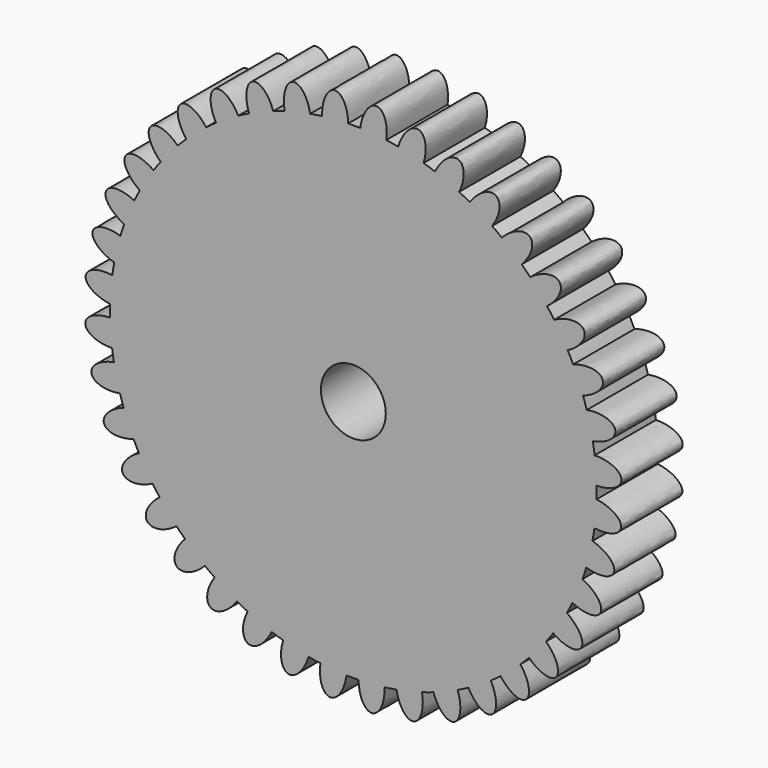
from build123d import *

# Parameters (mm, degrees)
F1_DEPTH = 6


with BuildPart() as f1:
    # F0 (on Front) → F1 (new body)
    with BuildSketch(Plane.XZ):
        with BuildLine():
            ThreePointArc((9.069051204, 14.3431792383), (9.0747859374, 14.6129997353), (9.0766976432, 14.8828743973))
            ThreePointArc((9.0766976432, 14.8828743973), (9.0756161921, 15.0858574449), (9.0723719615, 15.2888174461))
            ThreePointArc((9.0723719615, 15.2888174461), (9.0231044059, 16.3108205117), (8.9190351562, 17.3287041736))
            ThreePointArc((8.9190351562, 17.3287041736), (8.8525094627, 17.796859527), (8.7743846225, 18.2632194869))
            ThreePointArc((8.7743846225, 18.2632194869), (8.5658471294, 19.2649328551), (8.3038270587, 20.2540046627))
            ThreePointArc((8.3038270587, 20.2540046627), (8.1648847746, 20.7059893355), (8.0147670101, 21.1543862128))
            ThreePointArc((8.0147670101, 21.1543862128), (7.6520944647, 22.111144376), (7.2385753767, 23.0470500988))
            ThreePointArc((7.2385753767, 23.0470500988), (7.0306377222, 23.4717347284), (6.8122234308, 23.8911275039))
            ThreePointArc((6.8122234308, 23.8911275039), (6.3043460348, 24.7793719008), (5.749510142, 25.6390664338))
            ThreePointArc((5.749510142, 25.6390664338), (5.4776972322, 26.0259938752), (5.1963644987, 26.4060557068))
            ThreePointArc((5.1963644987, 26.4060557068), (4.5557878792, 27.2039148125), (3.8732970825, 27.9662296232))
            ThreePointArc((3.8732970825, 27.9662296232), (3.5443018534, 28.3058724386), (3.2069780234, 28.6372449427))
            ThreePointArc((3.2069780234, 28.6372449427), (2.4494753026, 29.325072818), (1.6561347906, 29.9712371857))
            ThreePointArc((1.6561347906, 29.9712371857), (1.2780581966, 30.2552322417), (0.8930493023, 30.5297559276))
            ThreePointArc((0.8930493023, 30.5297559276), (0.0372727113, 31.0906159675), (-0.8473828397, 31.6047191809))
            ThreePointArc((-0.8473828397, 31.6047191809), (-1.2652312982, 31.8260735769), (-1.6884450601, 32.0369887601))
            ThreePointArc((-1.6884450601, 32.0369887601), (-2.6214234614, 32.4570707291), (-3.5756108958, 32.826453861))
            ThreePointArc((-3.5756108958, 32.826453861), (-4.0229424028, 32.9797171169), (-4.4739401049, 33.1218303659))
            ThreePointArc((-4.4739401049, 33.1218303659), (-5.4611472921, 33.3907904516), (-6.4613713484, 33.6063580633))
            ThreePointArc((-6.4613713484, 33.6063580633), (-6.9271711177, 33.6877563293), (-7.3948476997, 33.757568344))
            ThreePointArc((-7.3948476997, 33.757568344), (-8.4119753553, 33.8687838566), (-9.4336071978, 33.9252279581))
            Line((-9.4336071978, 33.9252279581), (-9.9013430023, 17.4218548721))
            ThreePointArc((-9.9013430023, 17.4218548721), (-8.1519873428, 16.6533013571), (-7.4333023568, 14.8828743973))
            ThreePointArc((-7.4333023568, 14.8828743973), (-11.6500967662, 12.975006344), (-10.2994129937, 17.4018527324))
            Line((-10.2994129937, 17.4018527324), (-12.4191321331, 33.7752119103))
            ThreePointArc((-12.4191321331, 33.7752119103), (-12.8872874865, 33.7086862168), (-13.3536474464, 33.6305613767))
            ThreePointArc((-13.3536474464, 33.6305613767), (-14.3553608146, 33.4220238836), (-15.3444326222, 33.1600038129))
            ThreePointArc((-15.3444326222, 33.1600038129), (-15.796417295, 33.0210615288), (-16.2448141723, 32.8709437642))
            ThreePointArc((-16.2448141723, 32.8709437642), (-17.2015723355, 32.5082712188), (-18.1374780583, 32.0947521309))
            ThreePointArc((-18.1374780583, 32.0947521309), (-18.562162688, 31.8868144764), (-18.9815554634, 31.668400185))
            ThreePointArc((-18.9815554634, 31.668400185), (-19.8697998604, 31.160522789), (-20.7294943934, 30.6056868962))
            ThreePointArc((-20.7294943934, 30.6056868962), (-21.1164218347, 30.3338739864), (-21.4964836663, 30.0525412529))
            ThreePointArc((-21.4964836663, 30.0525412529), (-22.2943427721, 29.4119646334), (-23.0566575827, 28.7294738367))
            ThreePointArc((-23.0566575827, 28.7294738367), (-23.3963003981, 28.4004786076), (-23.7276729022, 28.0631547775))
            ThreePointArc((-23.7276729022, 28.0631547775), (-24.4155007775, 27.3056520568), (-25.0616651452, 26.5123115448))
            ThreePointArc((-25.0616651452, 26.5123115448), (-25.3456602012, 26.1342349508), (-25.6201838871, 25.7492260564))
            ThreePointArc((-25.6201838871, 25.7492260564), (-26.181043927, 24.8934494655), (-26.6951471405, 24.0087939144))
            ThreePointArc((-26.6951471405, 24.0087939144), (-26.9165015364, 23.590945456), (-27.1274167196, 23.1677316941))
            ThreePointArc((-27.1274167196, 23.1677316941), (-27.5474986886, 22.2347532927), (-27.9168818205, 21.2805658584))
            ThreePointArc((-27.9168818205, 21.2805658584), (-28.0701450764, 20.8332343513), (-28.2122583254, 20.3822366492))
            ThreePointArc((-28.2122583254, 20.3822366492), (-28.4812184111, 19.3950294621), (-28.6967860229, 18.3948054058))
            ThreePointArc((-28.6967860229, 18.3948054058), (-28.7781842888, 17.9290056365), (-28.8479963035, 17.4613290544))
            ThreePointArc((-28.8479963035, 17.4613290544), (-28.9592118161, 16.4442013988), (-29.0156559177, 15.4225695564))
            ThreePointArc((-29.0156559177, 15.4225695564), (-29.0231848981, 14.949771061), (-29.0189766752, 14.4769313486))
            ThreePointArc((-29.0189766752, 14.4769313486), (-28.9697091196, 13.454928283), (-28.8656398698, 12.437044621))
            ThreePointArc((-28.8656398698, 12.437044621), (-28.7991141764, 11.9688892676), (-28.7209893362, 11.5025293078))
            ThreePointArc((-28.7209893362, 11.5025293078), (-28.5124518431, 10.5008159396), (-28.2504317724, 9.511744132))
            ThreePointArc((-28.2504317724, 9.511744132), (-28.1114894883, 9.0597594591), (-27.9613717237, 8.6113625818))
            ThreePointArc((-27.9613717237, 8.6113625818), (-27.5986991783, 7.6546044186), (-27.1851800904, 6.7186986958))
            ThreePointArc((-27.1851800904, 6.7186986958), (-26.9772424359, 6.2940140662), (-26.7588281445, 5.8746212907))
            ThreePointArc((-26.7588281445, 5.8746212907), (-26.2509507485, 4.9863768938), (-25.6961148557, 4.1266823608))
            ThreePointArc((-25.6961148557, 4.1266823608), (-25.4243019459, 3.7397549194), (-25.1429692124, 3.3596930878))
            ThreePointArc((-25.1429692124, 3.3596930878), (-24.5023925929, 2.5618339821), (-23.8199017962, 1.7995191715))
            ThreePointArc((-23.8199017962, 1.7995191715), (-23.4909065671, 1.4598763561), (-23.1535827371, 1.128503852))
            ThreePointArc((-23.1535827371, 1.128503852), (-22.3960800163, 0.4406759766), (-21.6027395043, -0.205488391))
            ThreePointArc((-21.6027395043, -0.205488391), (-21.2246629103, -0.4894834471), (-20.8396540159, -0.7640071329))
            ThreePointArc((-20.8396540159, -0.7640071329), (-19.983877425, -1.3248671728), (-19.0992218739, -1.8389703863))
            ThreePointArc((-19.0992218739, -1.8389703863), (-18.6813734155, -2.0603247822), (-18.2581596536, -2.2712399655))
            ThreePointArc((-18.2581596536, -2.2712399655), (-17.3251812522, -2.6913219344), (-16.3709938179, -3.0607050664))
            ThreePointArc((-16.3709938179, -3.0607050664), (-15.9236623108, -3.2139683223), (-15.4726646088, -3.3560815712))
            ThreePointArc((-15.4726646088, -3.3560815712), (-14.4854574216, -3.6250416569), (-13.4852333653, -3.8406092687))
            ThreePointArc((-13.4852333653, -3.8406092687), (-13.019433596, -3.9220075346), (-12.5517570139, -3.9918195494))
            ThreePointArc((-12.5517570139, -3.9918195494), (-11.5346293583, -4.1030350619), (-10.5129975159, -4.1594791635))
            ThreePointArc((-10.5129975159, -4.1594791635), (-10.0401990205, -4.1670081439), (-9.5673593081, -4.162799921))
            ThreePointArc((-9.5673593081, -4.162799921), (-8.5453562425, -4.1135323654), (-7.5274725805, -4.0094631157))
            ThreePointArc((-7.5274725805, -4.0094631157), (-7.0593172271, -3.9429374222), (-6.5929572673, -3.864812582))
            ThreePointArc((-6.5929572673, -3.864812582), (-5.5912438991, -3.6562750889), (-4.6021720915, -3.3942550182))
            ThreePointArc((-4.6021720915, -3.3942550182), (-4.1501874186, -3.2553127342), (-3.7017905413, -3.1051949696))
            ThreePointArc((-3.7017905413, -3.1051949696), (-2.7450323781, -2.7425224242), (-1.8091266554, -2.3290033362))
            ThreePointArc((-1.8091266554, -2.3290033362), (-1.3844420257, -2.1210656817), (-0.9650492503, -1.9026513903))
            ThreePointArc((-0.9650492503, -1.9026513903), (-0.0768048533, -1.3947739943), (0.7828896797, -0.8399381015))
            ThreePointArc((0.7828896797, -0.8399381015), (1.1698171211, -0.5681251917), (1.5498789527, -0.2867924582))
            ThreePointArc((1.5498789527, -0.2867924582), (2.3477380584, 0.3537841613), (3.110052869, 1.036274958))
            ThreePointArc((3.110052869, 1.036274958), (3.4496956844, 1.3652701871), (3.7810681885, 1.7025940171))
            ThreePointArc((3.7810681885, 1.7025940171), (4.4688960639, 2.4600967378), (5.1150604315, 3.2534372499))
            ThreePointArc((5.1150604315, 3.2534372499), (5.3990554876, 3.6315138439), (5.6735791734, 4.0165227382))
            ThreePointArc((5.6735791734, 4.0165227382), (6.2344392133, 4.8722993292), (6.7485424268, 5.7569548802))
            ThreePointArc((6.7485424268, 5.7569548802), (6.9698968227, 6.1748033387), (7.180812006, 6.5980171006))
            ThreePointArc((7.180812006, 6.5980171006), (7.6008939749, 7.5309955019), (7.9702771068, 8.4851829363))
            ThreePointArc((7.9702771068, 8.4851829363), (8.1235403628, 8.9325144433), (8.2656536117, 9.3835121454))
            ThreePointArc((8.2656536117, 9.3835121454), (8.5346136974, 10.3707193325), (8.7501813092, 11.3709433888))
            ThreePointArc((8.7501813092, 11.3709433888), (8.8315795751, 11.8367431582), (8.9013915899, 12.3044197402))
            ThreePointArc((8.9013915899, 12.3044197402), (9.0126071024, 13.3215473958), (9.069051204, 14.3431792383))
        make_face()
        with BuildLine():
            ThreePointArc((8.9190351562, 17.3287041736), (9.0231044059, 16.3108205117), (9.0723719615, 15.2888174461))
            add(Edge.make_bspline(
                [(9.0723719615, 15.2888174461), (11.0965237738, 15.3142912387), (11.0187834824, 16.3484942673), (10.9410431911, 17.3826972958), (8.9190351562, 17.3287041736)],
                knots=[1.5954119774, 1.5954119774, 1.5954119774, 3.1799968121, 3.1799968121, 4.7645816468, 4.7645816468, 4.7645816468], degree=2, weights=[1, 0.7022150415, 1, 0.7022150415, 1]))
        make_face()
        with BuildLine():
            add(Edge.make_bspline(
                [(8.9013915899, 12.3044197402), (10.9046077135, 12.0129328023), (10.9896095317, 13.0465643363), (11.0746113499, 14.0801958703), (9.069051204, 14.3431792383)],
                knots=[1.5954119774, 1.5954119774, 1.5954119774, 3.1799968121, 3.1799968121, 4.7645816468, 4.7645816468, 4.7645816468], degree=2, weights=[1, 0.7022150415, 1, 0.7022150415, 1]))
            ThreePointArc((9.069051204, 14.3431792383), (9.0126071024, 13.3215473958), (8.9013915899, 12.3044197402))
        make_face()
        with BuildLine():
            ThreePointArc((8.3038270587, 20.2540046627), (8.5658471294, 19.2649328551), (8.7743846225, 18.2632194869))
            add(Edge.make_bspline(
                [(8.7743846225, 18.2632194869), (10.7696307879, 18.6050267607), (10.5310626111, 19.614335773), (10.2924944342, 20.6236447852), (8.3038270587, 20.2540046627)],
                knots=[1.5954119774, 1.5954119774, 1.5954119774, 3.1799968121, 3.1799968121, 4.7645816468, 4.7645816468, 4.7645816468], degree=2, weights=[1, 0.7022150415, 1, 0.7022150415, 1]))
        make_face()
        with BuildLine():
            add(Edge.make_bspline(
                [(8.2656536117, 9.3835121454), (10.1986082175, 8.7822418527), (10.4442591183, 9.7898504533), (10.6899100191, 10.797459054), (8.7501813092, 11.3709433888)],
                knots=[1.5954119774, 1.5954119774, 1.5954119774, 3.1799968121, 3.1799968121, 4.7645816468, 4.7645816468, 4.7645816468], degree=2, weights=[1, 0.7022150415, 1, 0.7022150415, 1]))
            ThreePointArc((8.7501813092, 11.3709433888), (8.5346136974, 10.3707193325), (8.2656536117, 9.3835121454))
        make_face()
        with BuildLine():
            ThreePointArc((7.2385753767, 23.0470500988), (7.6520944647, 22.111144376), (8.0147670101, 21.1543862128))
            add(Edge.make_bspline(
                [(8.0147670101, 21.1543862128), (9.9319779462, 21.8041105385), (9.5384562241, 22.7636729968), (9.144934502, 23.7232354551), (7.2385753767, 23.0470500988)],
                knots=[1.5954119774, 1.5954119774, 1.5954119774, 3.1799968121, 3.1799968121, 4.7645816468, 4.7645816468, 4.7645816468], degree=2, weights=[1, 0.7022150415, 1, 0.7022150415, 1]))
        make_face()
        with BuildLine():
            add(Edge.make_bspline(
                [(7.180812006, 6.5980171006), (8.9959093365, 5.7017687232), (9.3961605795, 6.6585437227), (9.7964118225, 7.6153187222), (7.9702771068, 8.4851829363)],
                knots=[1.5954119774, 1.5954119774, 1.5954119774, 3.1799968121, 3.1799968121, 4.7645816468, 4.7645816468, 4.7645816468], degree=2, weights=[1, 0.7022150415, 1, 0.7022150415, 1]))
            ThreePointArc((7.9702771068, 8.4851829363), (7.6008939749, 7.5309955019), (7.180812006, 6.5980171006))
        make_face()
        with BuildLine():
            ThreePointArc((5.749510142, 25.6390664338), (6.3043460348, 24.7793719008), (6.8122234308, 23.8911275039))
            add(Edge.make_bspline(
                [(6.8122234308, 23.8911275039), (8.6041910416, 24.8327705121), (8.0654055851, 25.7189588042), (7.5266201286, 26.6051470962), (5.749510142, 25.6390664338)],
                knots=[1.5954119774, 1.5954119774, 1.5954119774, 3.1799968121, 3.1799968121, 4.7645816468, 4.7645816468, 4.7645816468], degree=2, weights=[1, 0.7022150415, 1, 0.7022150415, 1]))
        make_face()
        with BuildLine():
            add(Edge.make_bspline(
                [(5.6735791734, 4.0165227382), (7.3261255083, 2.8473648857), (7.8711215795, 3.7297473082), (8.4161176508, 4.6121297307), (6.7485424268, 5.7569548802)],
                knots=[1.5954119774, 1.5954119774, 1.5954119774, 3.1799968121, 3.1799968121, 4.7645816468, 4.7645816468, 4.7645816468], degree=2, weights=[1, 0.7022150415, 1, 0.7022150415, 1]))
            ThreePointArc((6.7485424268, 5.7569548802), (6.2344392133, 4.8722993292), (5.6735791734, 4.0165227382))
        make_face()
        with BuildLine():
            ThreePointArc((3.8732970825, 27.9662296232), (4.5557878792, 27.2039148125), (5.1963644987, 26.4060557068))
            add(Edge.make_bspline(
                [(5.1963644987, 26.4060557068), (6.8189645944, 27.6164310216), (6.1481820895, 28.4074242506), (5.4773995846, 29.1984174796), (3.8732970825, 27.9662296232)],
                knots=[1.5954119774, 1.5954119774, 1.5954119774, 3.1799968121, 3.1799968121, 4.7645816468, 4.7645816468, 4.7645816468], degree=2, weights=[1, 0.7022150415, 1, 0.7022150415, 1]))
        make_face()
        with BuildLine():
            add(Edge.make_bspline(
                [(3.7810681885, 1.7025940171), (5.2303723526, 0.289315236), (5.90669364, 1.0755778978), (6.5830149275, 1.8618405596), (5.1150604315, 3.2534372499)],
                knots=[1.5954119774, 1.5954119774, 1.5954119774, 3.1799968121, 3.1799968121, 4.7645816468, 4.7645816468, 4.7645816468], degree=2, weights=[1, 0.7022150415, 1, 0.7022150415, 1]))
            ThreePointArc((5.1150604315, 3.2534372499), (4.4688960639, 2.4600967378), (3.7810681885, 1.7025940171))
        make_face()
        with BuildLine():
            ThreePointArc((1.6561347906, 29.9712371857), (2.4494753026, 29.325072818), (3.2069780234, 28.6372449427))
            add(Edge.make_bspline(
                [(3.2069780234, 28.6372449427), (4.6202568045, 30.0865491068), (3.8339941427, 30.7628703942), (3.0477314809, 31.4391916816), (1.6561347906, 29.9712371857)],
                knots=[1.5954119774, 1.5954119774, 1.5954119774, 3.1799968121, 3.1799968121, 4.7645816468, 4.7645816468, 4.7645816468], degree=2, weights=[1, 0.7022150415, 1, 0.7022150415, 1]))
        make_face()
        with BuildLine():
            add(Edge.make_bspline(
                [(1.5498789527, -0.2867924582), (2.7602542674, -1.9093925539), (3.5512474964, -1.238610049), (4.3422407254, -0.5678275441), (3.110052869, 1.036274958)],
                knots=[1.5954119774, 1.5954119774, 1.5954119774, 3.1799968121, 3.1799968121, 4.7645816468, 4.7645816468, 4.7645816468], degree=2, weights=[1, 0.7022150415, 1, 0.7022150415, 1]))
            ThreePointArc((3.110052869, 1.036274958), (2.3477380584, 0.3537841613), (1.5498789527, -0.2867924582))
        make_face()
        with BuildLine():
            ThreePointArc((-0.8473828397, 31.6047191809), (0.0372727113, 31.0906159675), (0.8930493023, 30.5297559276))
            add(Edge.make_bspline(
                [(0.8930493023, 30.5297559276), (2.0622071548, 32.1823022625), (1.1798247323, 32.7272983337), (0.2974423098, 33.2722944049), (-0.8473828397, 31.6047191809)],
                knots=[1.5954119774, 1.5954119774, 1.5954119774, 3.1799968121, 3.1799968121, 4.7645816468, 4.7645816468, 4.7645816468], degree=2, weights=[1, 0.7022150415, 1, 0.7022150415, 1]))
        make_face()
        with BuildLine():
            add(Edge.make_bspline(
                [(-0.9650492503, -1.9026513903), (-0.0234062421, -3.6946190011), (0.86278205, -3.1558335446), (1.7489703421, -2.6170480881), (0.7828896797, -0.8399381015)],
                knots=[1.5954119774, 1.5954119774, 1.5954119774, 3.1799968121, 3.1799968121, 4.7645816468, 4.7645816468, 4.7645816468], degree=2, weights=[1, 0.7022150415, 1, 0.7022150415, 1]))
            ThreePointArc((0.7828896797, -0.8399381015), (-0.0768048533, -1.3947739943), (-0.9650492503, -1.9026513903))
        make_face()
        with BuildLine():
            ThreePointArc((-3.5756108958, 32.826453861), (-2.6214234614, 32.4570707291), (-1.6884450601, 32.0369887601))
            add(Edge.make_bspline(
                [(-1.6884450601, 32.0369887601), (-0.7921966827, 33.8520860906), (-1.7489716822, 34.2523373336), (-2.7057466817, 34.6525885766), (-3.5756108958, 32.826453861)],
                knots=[1.5954119774, 1.5954119774, 1.5954119774, 3.1799968121, 3.1799968121, 4.7645816468, 4.7645816468, 4.7645816468], degree=2, weights=[1, 0.7022150415, 1, 0.7022150415, 1]))
        make_face()
        with BuildLine():
            add(Edge.make_bspline(
                [(-3.7017905413, -3.1051949696), (-3.0520662157, -5.0224059057), (-2.0925037574, -4.6288841836), (-1.1329412991, -4.2353624615), (-1.8091266554, -2.3290033362)],
                knots=[1.5954119774, 1.5954119774, 1.5954119774, 3.1799968121, 3.1799968121, 4.7645816468, 4.7645816468, 4.7645816468], degree=2, weights=[1, 0.7022150415, 1, 0.7022150415, 1]))
            ThreePointArc((-1.8091266554, -2.3290033362), (-2.7450323781, -2.7425224242), (-3.7017905413, -3.1051949696))
        make_face()
        with BuildLine():
            ThreePointArc((-6.4613713484, 33.6063580633), (-5.4611472921, 33.3907904516), (-4.4739401049, 33.1218303659))
            add(Edge.make_bspline(
                [(-4.4739401049, 33.1218303659), (-3.8726698122, 35.0547849717), (-4.8802784128, 35.3004358725), (-5.8878870135, 35.5460867733), (-6.4613713484, 33.6063580633)],
                knots=[1.5954119774, 1.5954119774, 1.5954119774, 3.1799968121, 3.1799968121, 4.7645816468, 4.7645816468, 4.7645816468], degree=2, weights=[1, 0.7022150415, 1, 0.7022150415, 1]))
        make_face()
        with BuildLine():
            add(Edge.make_bspline(
                [(-6.5929572673, -3.864812582), (-6.2511499934, -5.8600587475), (-5.2418409812, -5.6214905706), (-4.232531969, -5.3829223937), (-4.6021720915, -3.3942550182)],
                knots=[1.5954119774, 1.5954119774, 1.5954119774, 3.1799968121, 3.1799968121, 4.7645816468, 4.7645816468, 4.7645816468], degree=2, weights=[1, 0.7022150415, 1, 0.7022150415, 1]))
            ThreePointArc((-4.6021720915, -3.3942550182), (-5.5912438991, -3.6562750889), (-6.5929572673, -3.864812582))
        make_face()
        with BuildLine():
            ThreePointArc((-9.4336071978, 33.9252279581), (-8.4119753553, 33.8687838566), (-7.3948476997, 33.757568344))
            add(Edge.make_bspline(
                [(-7.3948476997, 33.757568344), (-7.1033607618, 35.7607844677), (-8.1369922958, 35.8457862859), (-9.1706238298, 35.930788104), (-9.4336071978, 33.9252279581)],
                knots=[1.5954119774, 1.5954119774, 1.5954119774, 3.1799968121, 3.1799968121, 4.7645816468, 4.7645816468, 4.7645816468], degree=2, weights=[1, 0.7022150415, 1, 0.7022150415, 1]))
        make_face()
        with BuildLine():
            add(Edge.make_bspline(
                [(-9.5673593081, -4.162799921), (-9.5418855155, -6.1869517333), (-8.5076824869, -6.1092114419), (-7.4734794583, -6.0314711506), (-7.5274725805, -4.0094631157)],
                knots=[1.5954119774, 1.5954119774, 1.5954119774, 3.1799968121, 3.1799968121, 4.7645816468, 4.7645816468, 4.7645816468], degree=2, weights=[1, 0.7022150415, 1, 0.7022150415, 1]))
            ThreePointArc((-7.5274725805, -4.0094631157), (-8.5453562425, -4.1135323654), (-9.5673593081, -4.162799921))
        make_face()
        with BuildLine():
            Line((-9.9013430023, 17.4218548721), (-9.4336071978, 33.9252279581))
            ThreePointArc((-9.4336071978, 33.9252279581), (-9.9064056932, 33.9327569386), (-10.3792454056, 33.9285487157))
            ThreePointArc((-10.3792454056, 33.9285487157), (-11.4012484712, 33.87928116), (-12.4191321331, 33.7752119103))
            Line((-12.4191321331, 33.7752119103), (-10.2994129937, 17.4018527324))
            ThreePointArc((-10.2994129937, 17.4018527324), (-10.1007709411, 17.4196739085), (-9.9013430023, 17.4218548721))
        make_face()
        with BuildLine():
            ThreePointArc((-12.4191321331, 33.7752119103), (-11.4012484712, 33.87928116), (-10.3792454056, 33.9285487157))
            add(Edge.make_bspline(
                [(-10.3792454056, 33.9285487157), (-10.4047191982, 35.9527005279), (-11.4389222268, 35.8749602366), (-12.4731252553, 35.7972199453), (-12.4191321331, 33.7752119103)],
                knots=[1.5954119774, 1.5954119774, 1.5954119774, 3.1799968121, 3.1799968121, 4.7645816468, 4.7645816468, 4.7645816468], degree=2, weights=[1, 0.7022150415, 1, 0.7022150415, 1]))
        make_face()
        with BuildLine():
            add(Edge.make_bspline(
                [(-12.5517570139, -3.9918195494), (-12.8432439519, -5.995035673), (-11.8096124179, -6.0800374912), (-10.7759808839, -6.1650393094), (-10.5129975159, -4.1594791635)],
                knots=[1.5954119774, 1.5954119774, 1.5954119774, 3.1799968121, 3.1799968121, 4.7645816468, 4.7645816468, 4.7645816468], degree=2, weights=[1, 0.7022150415, 1, 0.7022150415, 1]))
            ThreePointArc((-10.5129975159, -4.1594791635), (-11.5346293583, -4.1030350619), (-12.5517570139, -3.9918195494))
        make_face()
        with BuildLine():
            ThreePointArc((-15.3444326222, 33.1600038129), (-14.3553608146, 33.4220238836), (-13.3536474464, 33.6305613767))
            add(Edge.make_bspline(
                [(-13.3536474464, 33.6305613767), (-13.6954547202, 35.6258075421), (-14.7047637325, 35.3872393652), (-15.7140727447, 35.1486711884), (-15.3444326222, 33.1600038129)],
                knots=[1.5954119774, 1.5954119774, 1.5954119774, 3.1799968121, 3.1799968121, 4.7645816468, 4.7645816468, 4.7645816468], degree=2, weights=[1, 0.7022150415, 1, 0.7022150415, 1]))
        make_face()
        with BuildLine():
            add(Edge.make_bspline(
                [(-15.4726646088, -3.3560815712), (-16.0739349015, -5.289036177), (-15.0663263008, -5.5346870778), (-14.0587177002, -5.7803379786), (-13.4852333653, -3.8406092687)],
                knots=[1.5954119774, 1.5954119774, 1.5954119774, 3.1799968121, 3.1799968121, 4.7645816468, 4.7645816468, 4.7645816468], degree=2, weights=[1, 0.7022150415, 1, 0.7022150415, 1]))
            ThreePointArc((-13.4852333653, -3.8406092687), (-14.4854574216, -3.6250416569), (-15.4726646088, -3.3560815712))
        make_face()
        with BuildLine():
            ThreePointArc((-18.1374780583, 32.0947521309), (-17.2015723355, 32.5082712188), (-16.2448141723, 32.8709437642))
            add(Edge.make_bspline(
                [(-16.2448141723, 32.8709437642), (-16.894538498, 34.7881547004), (-17.8541009563, 34.3946329783), (-18.8136634146, 34.0011112562), (-18.1374780583, 32.0947521309)],
                knots=[1.5954119774, 1.5954119774, 1.5954119774, 3.1799968121, 3.1799968121, 4.7645816468, 4.7645816468, 4.7645816468], degree=2, weights=[1, 0.7022150415, 1, 0.7022150415, 1]))
        make_face()
        with BuildLine():
            add(Edge.make_bspline(
                [(-18.2581596536, -2.2712399655), (-19.154408031, -4.086337296), (-18.1976330315, -4.486588539), (-17.240858032, -4.886839782), (-16.3709938179, -3.0607050664)],
                knots=[1.5954119774, 1.5954119774, 1.5954119774, 3.1799968121, 3.1799968121, 4.7645816468, 4.7645816468, 4.7645816468], degree=2, weights=[1, 0.7022150415, 1, 0.7022150415, 1]))
            ThreePointArc((-16.3709938179, -3.0607050664), (-17.3251812522, -2.6913219344), (-18.2581596536, -2.2712399655))
        make_face()
        with BuildLine():
            ThreePointArc((-20.7294943934, 30.6056868962), (-19.8697998604, 31.160522789), (-18.9815554634, 31.668400185))
            add(Edge.make_bspline(
                [(-18.9815554634, 31.668400185), (-19.9231984716, 33.4603677958), (-20.8093867637, 32.9215823393), (-21.6955750557, 32.3827968827), (-20.7294943934, 30.6056868962)],
                knots=[1.5954119774, 1.5954119774, 1.5954119774, 3.1799968121, 3.1799968121, 4.7645816468, 4.7645816468, 4.7645816468], degree=2, weights=[1, 0.7022150415, 1, 0.7022150415, 1]))
        make_face()
        with BuildLine():
            add(Edge.make_bspline(
                [(-20.8396540159, -0.7640071329), (-22.0088118684, -2.4165534678), (-21.1264294459, -2.961549539), (-20.2440470234, -3.5065456103), (-19.0992218739, -1.8389703863)],
                knots=[1.5954119774, 1.5954119774, 1.5954119774, 3.1799968121, 3.1799968121, 4.7645816468, 4.7645816468, 4.7645816468], degree=2, weights=[1, 0.7022150415, 1, 0.7022150415, 1]))
            ThreePointArc((-19.0992218739, -1.8389703863), (-19.983877425, -1.3248671728), (-20.8396540159, -0.7640071329))
        make_face()
        with BuildLine():
            ThreePointArc((-23.0566575827, 28.7294738367), (-22.2943427721, 29.4119646334), (-21.4964836663, 30.0525412529))
            add(Edge.make_bspline(
                [(-21.4964836663, 30.0525412529), (-22.7068589811, 31.6751413486), (-23.4978522101, 31.0043588437), (-24.2888454391, 30.3335763388), (-23.0566575827, 28.7294738367)],
                knots=[1.5954119774, 1.5954119774, 1.5954119774, 3.1799968121, 3.1799968121, 4.7645816468, 4.7645816468, 4.7645816468], degree=2, weights=[1, 0.7022150415, 1, 0.7022150415, 1]))
        make_face()
        with BuildLine():
            add(Edge.make_bspline(
                [(-23.1535827371, 1.128503852), (-24.5668615182, -0.3208003121), (-23.7805988564, -0.9971215996), (-22.9943361946, -1.673442887), (-21.6027395043, -0.205488391)],
                knots=[1.5954119774, 1.5954119774, 1.5954119774, 3.1799968121, 3.1799968121, 4.7645816468, 4.7645816468, 4.7645816468], degree=2, weights=[1, 0.7022150415, 1, 0.7022150415, 1]))
            ThreePointArc((-21.6027395043, -0.205488391), (-22.3960800163, 0.4406759766), (-23.1535827371, 1.128503852))
        make_face()
        with BuildLine():
            ThreePointArc((-25.0616651452, 26.5123115448), (-24.4155007775, 27.3056520568), (-23.7276729022, 28.0631547775))
            add(Edge.make_bspline(
                [(-23.7276729022, 28.0631547776), (-25.1769770663, 29.4764335586), (-25.8532983537, 28.6901708968), (-26.5296196412, 27.9039082351), (-25.0616651452, 26.5123115448)],
                knots=[1.5954119774, 1.5954119774, 1.5954119774, 3.1799968121, 3.1799968121, 4.7645816468, 4.7645816468, 4.7645816468], degree=2, weights=[1, 0.7022150415, 1, 0.7022150415, 1]))
        make_face()
        with BuildLine():
            add(Edge.make_bspline(
                [(-25.1429692124, 3.3596930878), (-26.7655693081, 2.149317773), (-26.0947868032, 1.3583245441), (-25.4240042983, 0.5673313151), (-23.8199017962, 1.7995191715)],
                knots=[1.5954119774, 1.5954119774, 1.5954119774, 3.1799968121, 3.1799968121, 4.7645816468, 4.7645816468, 4.7645816468], degree=2, weights=[1, 0.7022150415, 1, 0.7022150415, 1]))
            ThreePointArc((-23.8199017962, 1.7995191715), (-24.5023925929, 2.5618339821), (-25.1429692124, 3.3596930878))
        make_face()
        with BuildLine():
            ThreePointArc((-26.6951471405, 24.0087939144), (-26.181043927, 24.8934494655), (-25.6201838871, 25.7492260564))
            add(Edge.make_bspline(
                [(-25.6201838871, 25.7492260564), (-27.272730222, 26.9183839089), (-27.8177262932, 26.0360014864), (-28.3627223644, 25.1536190639), (-26.6951471405, 24.0087939144)],
                knots=[1.5954119774, 1.5954119774, 1.5954119774, 3.1799968121, 3.1799968121, 4.7645816468, 4.7645816468, 4.7645816468], degree=2, weights=[1, 0.7022150415, 1, 0.7022150415, 1]))
        make_face()
        with BuildLine():
            add(Edge.make_bspline(
                [(-26.7588281445, 5.8746212907), (-28.5507957553, 4.9329782825), (-28.0120102988, 4.0467899905), (-27.4732248422, 3.1606016984), (-25.6961148557, 4.1266823608)],
                knots=[1.5954119774, 1.5954119774, 1.5954119774, 3.1799968121, 3.1799968121, 4.7645816468, 4.7645816468, 4.7645816468], degree=2, weights=[1, 0.7022150415, 1, 0.7022150415, 1]))
            ThreePointArc((-25.6961148557, 4.1266823608), (-26.2509507485, 4.9863768938), (-26.7588281445, 5.8746212907))
        make_face()
        with BuildLine():
            ThreePointArc((-27.9168818205, 21.2805658584), (-27.5474986886, 22.2347532927), (-27.1274167196, 23.1677316941))
            add(Edge.make_bspline(
                [(-27.1274167196, 23.1677316941), (-28.9425140501, 24.0639800715), (-29.3427652931, 23.107205072), (-29.7430165361, 22.1504300725), (-27.9168818205, 21.2805658584)],
                knots=[1.5954119774, 1.5954119774, 1.5954119774, 3.1799968121, 3.1799968121, 4.7645816468, 4.7645816468, 4.7645816468], degree=2, weights=[1, 0.7022150415, 1, 0.7022150415, 1]))
        make_face()
        with BuildLine():
            add(Edge.make_bspline(
                [(-27.9613717237, 8.6113625818), (-29.8785826599, 7.9616382562), (-29.4850609378, 7.0020757979), (-29.0915392157, 6.0425133396), (-27.1851800904, 6.7186986958)],
                knots=[1.5954119774, 1.5954119774, 1.5954119774, 3.1799968121, 3.1799968121, 4.7645816468, 4.7645816468, 4.7645816468], degree=2, weights=[1, 0.7022150415, 1, 0.7022150415, 1]))
            ThreePointArc((-27.1851800904, 6.7186986958), (-27.5986991783, 7.6546044186), (-27.9613717237, 8.6113625818))
        make_face()
        with BuildLine():
            ThreePointArc((-28.6967860229, 18.3948054058), (-28.4812184111, 19.3950294621), (-28.2122583254, 20.3822366492))
            add(Edge.make_bspline(
                [(-28.2122583254, 20.3822366493), (-30.1452129312, 20.983506942), (-30.390863832, 19.9758983413), (-30.6365147328, 18.9682897407), (-28.6967860229, 18.3948054058)],
                knots=[1.5954119774, 1.5954119774, 1.5954119774, 3.1799968121, 3.1799968121, 4.7645816468, 4.7645816468, 4.7645816468], degree=2, weights=[1, 0.7022150415, 1, 0.7022150415, 1]))
        make_face()
        with BuildLine():
            add(Edge.make_bspline(
                [(-28.7209893362, 11.5025293078), (-30.7162355016, 11.1607220339), (-30.4776673248, 10.1514130217), (-30.2390991479, 9.1421040095), (-28.2504317724, 9.511744132)],
                knots=[1.5954119774, 1.5954119774, 1.5954119774, 3.1799968121, 3.1799968121, 4.7645816468, 4.7645816468, 4.7645816468], degree=2, weights=[1, 0.7022150415, 1, 0.7022150415, 1]))
            ThreePointArc((-28.2504317724, 9.511744132), (-28.5124518431, 10.5008159396), (-28.7209893362, 11.5025293078))
        make_face()
        with BuildLine():
            ThreePointArc((-29.0156559177, 15.4225695564), (-28.9592118161, 16.4442013988), (-28.8479963035, 17.4613290544))
            add(Edge.make_bspline(
                [(-28.8479963035, 17.4613290544), (-30.8512124272, 17.7528159924), (-30.9362142454, 16.7191844584), (-31.0212160635, 15.6855529244), (-29.0156559177, 15.4225695564)],
                knots=[1.5954119774, 1.5954119774, 1.5954119774, 3.1799968121, 3.1799968121, 4.7645816468, 4.7645816468, 4.7645816468], degree=2, weights=[1, 0.7022150415, 1, 0.7022150415, 1]))
        make_face()
        with BuildLine():
            add(Edge.make_bspline(
                [(-29.0189766752, 14.4769313486), (-31.0431284874, 14.4514575559), (-30.9653881961, 13.4172545274), (-30.8876479048, 12.3830514988), (-28.8656398698, 12.437044621)],
                knots=[1.5954119774, 1.5954119774, 1.5954119774, 3.1799968121, 3.1799968121, 4.7645816468, 4.7645816468, 4.7645816468], degree=2, weights=[1, 0.7022150415, 1, 0.7022150415, 1]))
            ThreePointArc((-28.8656398698, 12.437044621), (-28.9697091196, 13.454928283), (-29.0189766752, 14.4769313486))
        make_face()
    extrude(amount=F1_DEPTH)


solid = f1.part
